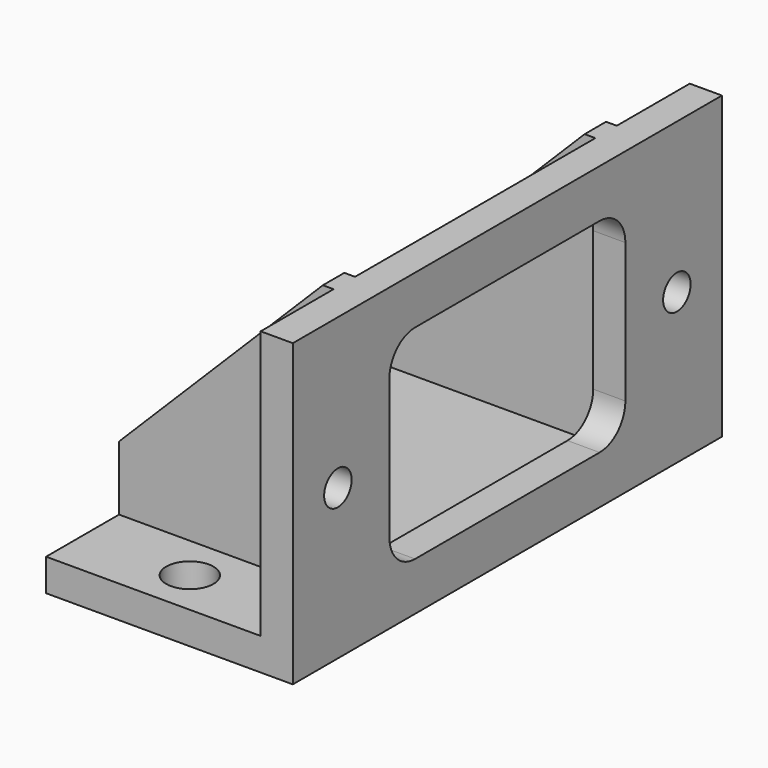
from build123d import *

# Parameters (mm, degrees)
PAD_DEPTH    = 50
SKETCH003_W  = 20
SKETCH003_H  = 2.5
PAD001_DEPTH = 25
CHAMFER_SIZE = 19
SKETCH004_R  = 1.6
SKETCH004_W  = 19
SKETCH004_H  = 27.5
POCKET_DEPTH = 23.001
FILLET_R     = 3
SKETCH005_R  = 2.2
HOLE_DEPTH   = 25


with BuildPart() as part:
    # Sketch → Pad (new body)
    with BuildSketch(Plane.XZ):
        Polygon((-23, 3), (-23, 0), (0, 0), (0, 28), (-3, 28), (-3, 3), align=None)
    extrude(amount=PAD_DEPTH)

    # Sketch003 (on Face6 of Pad) → Pad001 (join)
    with BuildSketch(Plane(origin=(0, 0, 3), x_dir=(-1, 0, 0), z_dir=(0, 0, 1))):
        with Locations((13, 40.25)):
            Rectangle(SKETCH003_W, SKETCH003_H)
        with Locations((13, 9.75)):
            Rectangle(SKETCH003_W, SKETCH003_H)
    extrude(amount=PAD001_DEPTH)

    # Chamfer
    chamfer_edges = [part.edges().sort_by_distance(p)[0] for p in [
        (-23, -40.25, 28),
        (-23, -9.75, 28),
    ]]
    chamfer(chamfer_edges, length=CHAMFER_SIZE)

    # Sketch004 (on Face21 of Chamfer) → Pocket (cut, through all)
    with BuildSketch(Plane(origin=(0, 0, 0), x_dir=(0, 0, 1), z_dir=(1, 0, 0))):
        with Locations((14, 44.75)):
            Circle(SKETCH004_R)
        with Locations((14, 5.25)):
            Circle(SKETCH004_R)
        with Locations((14, 25)):
            Rectangle(SKETCH004_W, SKETCH004_H)
    extrude(amount=-POCKET_DEPTH, mode=Mode.SUBTRACT)

    # Fillet
    fillet_edges = [part.edges().sort_by_distance(p)[0] for p in [
        (-1.5, -11.25, 4.5),
        (-1.5, -11.25, 23.5),
        (-1.5, -38.75, 4.5),
        (-1.5, -38.75, 23.5),
    ]]
    fillet(fillet_edges, radius=FILLET_R)

    # Sketch005 (on Face9 of Pocket) → Hole (cut)
    with BuildSketch(Plane(origin=(0, 0, 3), x_dir=(-1, 0, 0), z_dir=(0, 0, 1))):
        with Locations((13, 4.25)):
            Circle(SKETCH005_R)
        with Locations((13, 45.75)):
            Circle(SKETCH005_R)
    extrude(amount=-HOLE_DEPTH, mode=Mode.SUBTRACT)


solid = part.part
